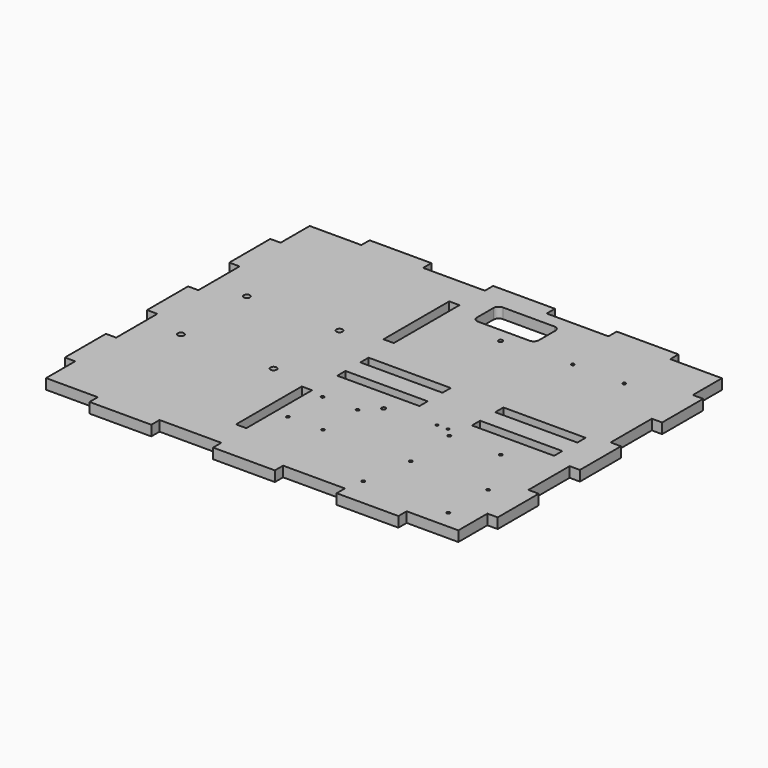
from build123d import *

# Parameters (mm, degrees)
SKETCH_W        = 10
SKETCH_H        = 79.8
SKETCH_W_2      = 79.8
SKETCH_H_2      = 10
PAD_DEPTH       = 10
SKETCH001_R     = 3
POCKET_DEPTH    = 10.001
SKETCH002_R     = 1.5
POCKET001_DEPTH = 10.001
SKETCH003_R     = 1.5
POCKET002_DEPTH = 10.001
SKETCH004_R     = 2
POCKET003_DEPTH = 10.001
POCKET004_DEPTH = 10.001
SKETCH006_R     = 1.2
POCKET005_DEPTH = 10.001
SKETCH007_R     = 1.5
POCKET006_DEPTH = 10.001


with BuildPart() as part:
    # Sketch → Pad (new body)
    with BuildSketch(Plane.XY):
        Polygon((0, 0), (0, 35.3), (-10, 35.3), (-10, 85.1), (0, 85.1), (0, 135.1), (-10, 135.1), (-10, 184.9), (0, 184.9), (0, 234.9), (-10, 234.9), (-10, 284.7), (0, 284.7), (0, 320), (50.2, 320), (50.2, 330), (110.2, 330), (110.2, 320), (170.2, 320), (170.2, 330), (230.2, 330), (230.2, 320), (290.2, 320), (290.2, 330), (350.2, 330), (350.2, 320), (400.4, 320), (400.4, 284.7), (410.4, 284.7), (410.4, 234.9), (400.4, 234.9), (400.4, 184.9), (410.4, 184.9), (410.4, 135.1), (400.4, 135.1), (400.4, 85.1), (410.4, 85.1), (410.4, 35.3), (400.4, 35.3), (400.4, 0), (350.2, 0), (350.2, -10), (290.2, -10), (290.2, 0), (230.2, 0), (230.2, -10), (170.2, -10), (170.2, 0), (110.2, 0), (110.2, -10), (50.2, -10), (50.2, 0), align=None)
        with Locations((165, 249.5)):
            Rectangle(SKETCH_W, SKETCH_H, mode=Mode.SUBTRACT)
        with Locations((165, 70.5)):
            Rectangle(SKETCH_W, SKETCH_H, mode=Mode.SUBTRACT)
        with Locations((209.9, 174)):
            Rectangle(SKETCH_W_2, SKETCH_H_2, mode=Mode.SUBTRACT)
        with Locations((340.9, 174)):
            Rectangle(SKETCH_W_2, SKETCH_H_2, mode=Mode.SUBTRACT)
        with Locations((209.9, 146)):
            Rectangle(SKETCH_W_2, SKETCH_H_2, mode=Mode.SUBTRACT)
        with Locations((340.7, 146)):
            Rectangle(SKETCH_W_2, SKETCH_H_2, mode=Mode.SUBTRACT)
    extrude(amount=PAD_DEPTH)

    # Sketch001 (on DatumPlane) → Pocket (cut, through all)
    with BuildSketch(Plane.XY.offset(10)):
        with Locations((35, 120)):
            Circle(SKETCH001_R)
        with Locations((125, 120)):
            Circle(SKETCH001_R)
        with Locations((125, 200)):
            Circle(SKETCH001_R)
        with Locations((35, 200)):
            Circle(SKETCH001_R)
    extrude(amount=-POCKET_DEPTH, mode=Mode.SUBTRACT)

    # Sketch002 (on DatumPlane) → Pocket001 (cut, through all)
    with BuildSketch(Plane.XY.offset(10)):
        with Locations((298, 267)):
            Circle(SKETCH002_R)
        with Locations((348, 267)):
            Circle(SKETCH002_R)
        with Locations((298, 117)):
            Circle(SKETCH002_R)
        with Locations((348, 117)):
            Circle(SKETCH002_R)
    extrude(amount=-POCKET001_DEPTH, mode=Mode.SUBTRACT)

    # Sketch003 (on DatumPlane) → Pocket002 (cut, through all)
    with BuildSketch(Plane.XY.offset(10)):
        with Locations((376.383, 66.166)):
            Circle(SKETCH003_R)
        with Locations((376.383, 17.83)):
            Circle(SKETCH003_R)
        with Locations((293.757, 17.83)):
            Circle(SKETCH003_R)
        with Locations((301.25, 66.166)):
            Circle(SKETCH003_R)
    extrude(amount=-POCKET002_DEPTH, mode=Mode.SUBTRACT)

    # Sketch004 (on DatumPlane) → Pocket003 (cut, through all)
    with BuildSketch(Plane.XY.offset(10)):
        with Locations((231, 263)):
            Circle(SKETCH004_R)
        with Locations((231, 121)):
            Circle(SKETCH004_R)
    extrude(amount=-POCKET003_DEPTH, mode=Mode.SUBTRACT)

    # Sketch005 (on DatumPlane) → Pocket004 (cut, through all)
    with BuildSketch(Plane.XY.offset(10)):
        with BuildLine():
            Line((198, 307), (248, 307))
            ThreePointArc((253, 302), (251.535534, 305.535534), (248, 307))
            Line((253, 302), (253, 282))
            ThreePointArc((248, 277), (251.535534, 278.464466), (253, 282))
            Line((248, 277), (198, 277))
            ThreePointArc((193, 282), (194.464466, 278.464466), (198, 277))
            Line((193, 282), (193, 302))
            ThreePointArc((198, 307), (194.464466, 305.535534), (193, 302))
        make_face()
    extrude(amount=-POCKET004_DEPTH, mode=Mode.SUBTRACT)

    # Sketch006 (on DatumPlane) → Pocket005 (cut, through all)
    with BuildSketch(Plane.XY.offset(10)):
        with Locations((279.75, 125)):
            Circle(SKETCH006_R)
        with Locations((290.25, 125)):
            Circle(SKETCH006_R)
    extrude(amount=-POCKET005_DEPTH, mode=Mode.SUBTRACT)

    # Sketch007 (on DatumPlane) → Pocket006 (cut, through all)
    with BuildSketch(Plane.XY.offset(10)):
        with Locations((183, 106.9)):
            Circle(SKETCH007_R)
        with Locations((217, 106.9)):
            Circle(SKETCH007_R)
        with Locations((217, 64.9)):
            Circle(SKETCH007_R)
        with Locations((183, 64.9)):
            Circle(SKETCH007_R)
    extrude(amount=-POCKET006_DEPTH, mode=Mode.SUBTRACT)


solid = part.part
